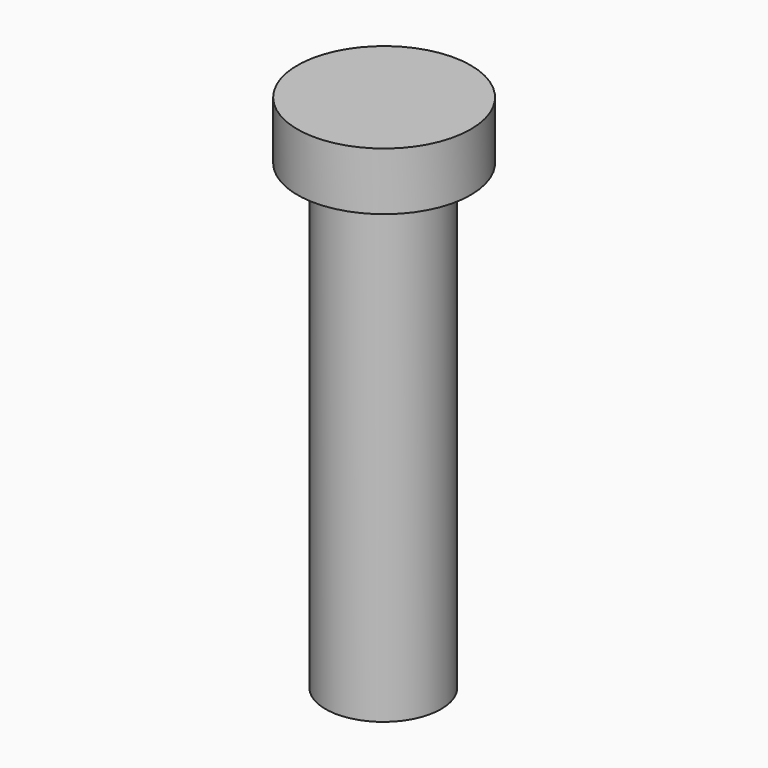
from build123d import *

# Parameters (mm, degrees)
SKETCH_R     = 10
PAD_DEPTH    = 80
SKETCH001_R  = 15
PAD001_DEPTH = 10


with BuildPart() as part:
    # Sketch → Pad (new body)
    with BuildSketch(Plane.XY):
        Circle(SKETCH_R)
    extrude(amount=PAD_DEPTH)

    # Sketch001 (on Face3 of Pad) → Pad001 (new body)
    with BuildSketch(Plane.XY.offset(80)):
        with Locations((0.137114, 0)):
            Circle(SKETCH001_R)
    extrude(amount=PAD001_DEPTH)


solid = part.part
